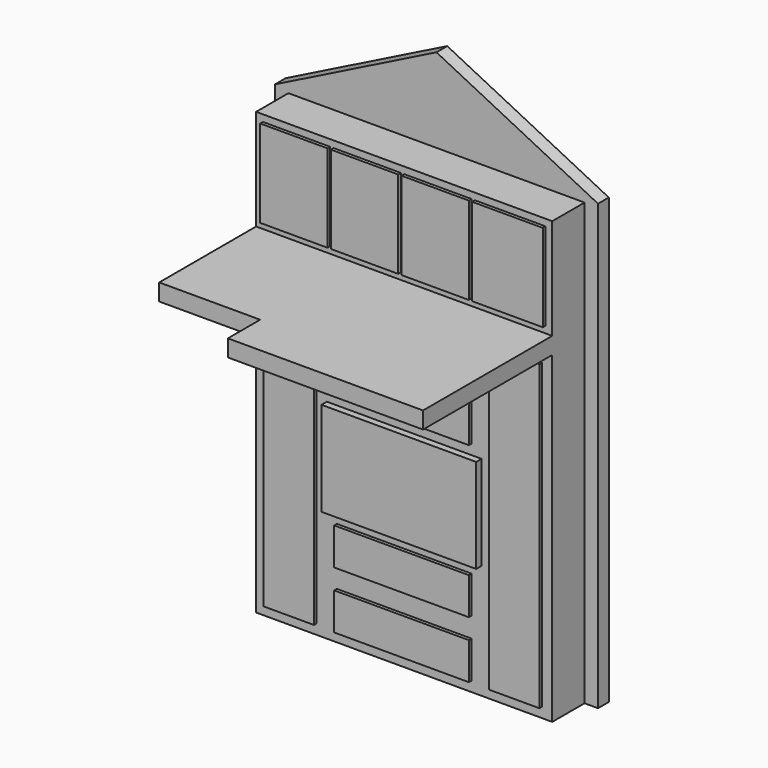
from build123d import *

# Parameters (mm, degrees)
F0_W      = 2438.4
F0_H      = 3352.8
F1_DEPTH  = 101.6
F2_W      = 2235.2
F2_H      = 2438.4
F3_DEPTH  = 304.8
F4_W      = 1168.4
F4_H      = 711.2
F5_DEPTH  = 50.8
F6_W      = 381
F6_H      = 2286
F6_W_2    = 1016
F6_H_2    = 279.4
F7_DEPTH  = 25.4
F8_W      = 2235.2
F8_H      = 127
F9_DEPTH  = 1219.2
F8_H_2    = 762
F10_DEPTH = 304.8
F11_W     = 508
F11_H     = 660.4
F11_W_2   = 533.4
F12_DEPTH = 25.4
F13_W     = 1473.2
F13_H     = 127
F14_DEPTH = 304.8


with BuildPart() as f1:
    # F0 (on Front) → F1 (new body)
    with BuildSketch(Plane.XZ):
        with Locations((-1219.2, 1676.4)):
            Rectangle(F0_W, F0_H)
        Polygon((-2438.4, 3352.8), (0, 3352.8), (-1219.2, 3962.4), align=None)
    extrude(amount=-F1_DEPTH)

    # F2 (on face) → F3 (join)
    with BuildSketch(Plane.XZ):
        with Locations((-1219.2, 1219.2)):
            Rectangle(F2_W, F2_H)
    extrude(amount=F3_DEPTH)

    # F4 (on face) → F5 (join)
    with BuildSketch(Plane.XZ.offset(304.8)):
        with Locations((-1219.2, 1219.2)):
            Rectangle(F4_W, F4_H)
    extrude(amount=F5_DEPTH)

    # F6 (on face) → F7 (join)
    with BuildSketch(Plane.XZ.offset(304.8)):
        with Locations((-368.3, 1219.2)):
            Rectangle(F6_W, F6_H)
        with Locations((-1219.2, 2222.5)):
            Rectangle(F6_W_2, F6_H_2)
        with Locations((-1219.2, 1790.7)):
            Rectangle(F6_W_2, F6_H_2)
        with Locations((-2070.1, 1219.2)):
            Rectangle(F6_W, F6_H)
        with Locations((-1219.2, 647.7)):
            Rectangle(F6_W_2, F6_H_2)
        with Locations((-1219.2, 215.9)):
            Rectangle(F6_W_2, F6_H_2)
    extrude(amount=F7_DEPTH)

    # F8 (on face) → F9 (join)
    with BuildSketch(Plane.XZ):
        with Locations((-1219.2, 2501.9)):
            Rectangle(F8_W, F8_H)
    extrude(amount=F9_DEPTH)

    # F8 (on face) → F10 (join)
    with BuildSketch(Plane.XZ):
        with Locations((-1219.2, 2946.4)):
            Rectangle(F8_W, F8_H_2)
    extrude(amount=F10_DEPTH)

    # F11 (on face) → F12 (join)
    with BuildSketch(Plane.XZ.offset(304.8)):
        with Locations((-2032, 2946.4)):
            Rectangle(F11_W, F11_H)
        with Locations((-1498.6, 2946.4)):
            Rectangle(F11_W, F11_H)
        with Locations((-965.2, 2946.4)):
            Rectangle(F11_W, F11_H)
        with Locations((-419.1, 2946.4)):
            Rectangle(F11_W_2, F11_H)
    extrude(amount=F12_DEPTH)

    # F13 (on face) → F14 (join)
    with BuildSketch(Plane.XZ.offset(1219.2)):
        with Locations((-838.2, 2501.9)):
            Rectangle(F13_W, F13_H)
    extrude(amount=F14_DEPTH)


solid = f1.part
